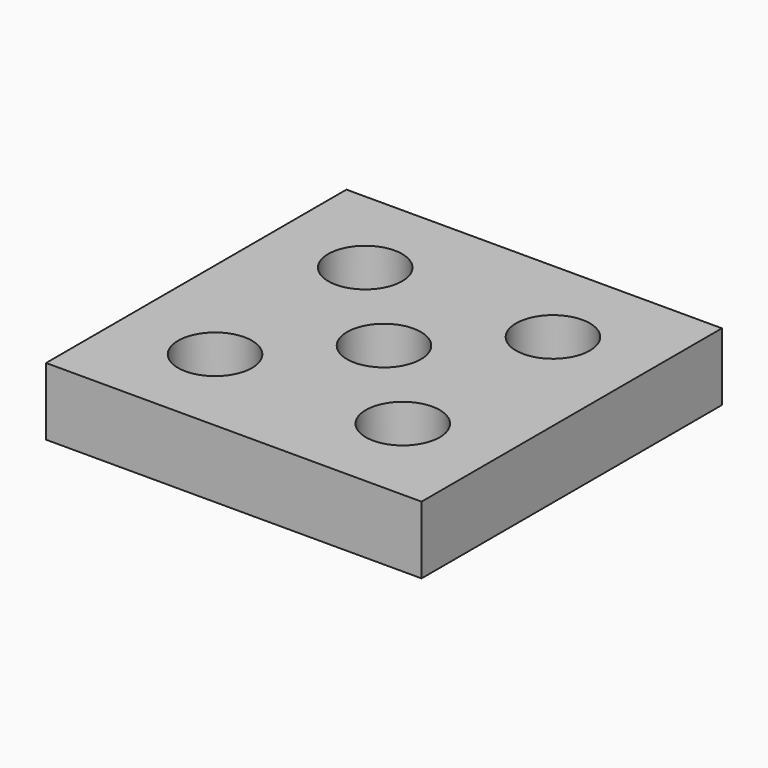
from build123d import *

# Parameters (mm, degrees)
F0_W      = 25.4
F0_H      = 25.399996
F1_DEPTH  = 4.572
F2_R      = 2.5
F3_DEPTH  = 4.318
F4_R      = 2.5
F5_DEPTH  = 4.064
F6_R      = 2.5
F7_DEPTH  = 3.81
F8_R      = 2.5
F9_DEPTH  = 3.556
F10_R     = 2.5
F11_DEPTH = 3.302


with BuildPart() as f1:
    # F0 (on Top) → F1 (new body)
    with BuildSketch(Plane.XY):
        Rectangle(F0_W, F0_H)
    extrude(amount=F1_DEPTH)

    # F2 (on face) → F3 (cut)
    with BuildSketch(Plane.XY.offset(4.572)):
        with Locations((-6.35, 6.35)):
            Circle(F2_R)
    extrude(amount=-F3_DEPTH, mode=Mode.SUBTRACT)

    # F4 (on face) → F5 (cut)
    with BuildSketch(Plane.XY.offset(4.572)):
        with Locations((6.35, 6.349998)):
            Circle(F4_R)
    extrude(amount=-F5_DEPTH, mode=Mode.SUBTRACT)

    # F6 (on face) → F7 (cut)
    with BuildSketch(Plane.XY.offset(4.572)):
        with Locations((-6.35, -6.349998)):
            Circle(F6_R)
    extrude(amount=-F7_DEPTH, mode=Mode.SUBTRACT)

    # F8 (on face) → F9 (cut)
    with BuildSketch(Plane.XY.offset(4.572)):
        with Locations((6.35, -6.349998)):
            Circle(F8_R)
    extrude(amount=-F9_DEPTH, mode=Mode.SUBTRACT)

    # F10 (on face) → F11 (cut)
    with BuildSketch(Plane.XY.offset(4.572)):
        Circle(F10_R)
    extrude(amount=-F11_DEPTH, mode=Mode.SUBTRACT)


solid = f1.part
